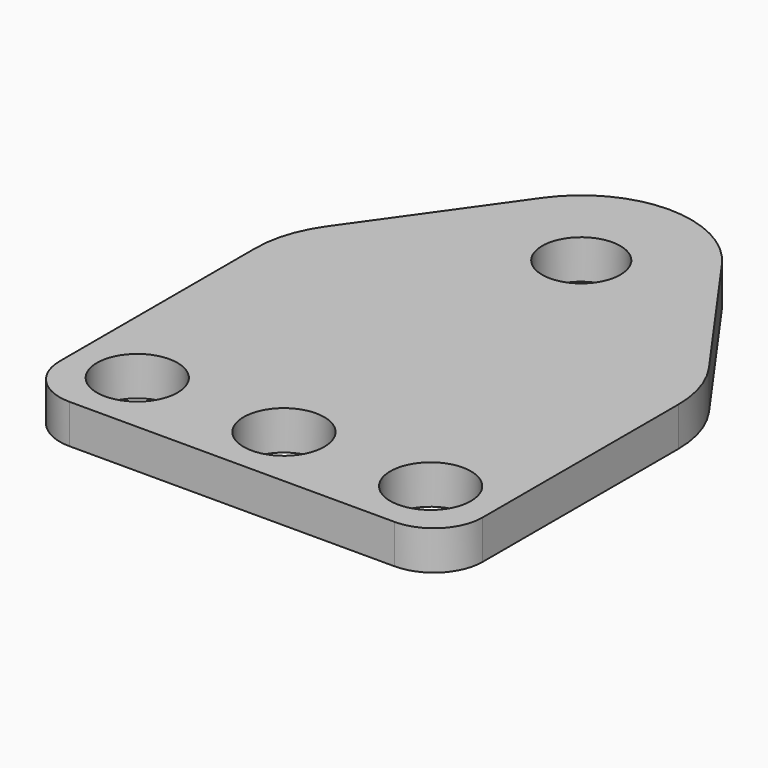
from build123d import *

# Parameters (mm, degrees)
SKETCH_R   = 8
SKETCH_R_2 = 8.25
PAD_DEPTH  = 8


with BuildPart() as part:
    # Sketch → Pad (new body)
    with BuildSketch(Plane.XY):
        with BuildLine():
            Line((-43.25, -79.25), (-43.25, -29.25))
            ThreePointArc((-39.101298, -16.231558), (-42.18775, -22.418244), (-43.25, -29.25))
            Line((-39.101298, -16.231558), (-18.351298, 13.018442))
            ThreePointArc((18.351298, 13.018442), (0, 22.5), (-18.351298, 13.018442))
            Line((39.101298, -16.231558), (18.351298, 13.018442))
            ThreePointArc((43.25, -29.25), (42.18775, -22.418244), (39.101298, -16.231558))
            Line((43.25, -79.25), (43.25, -29.25))
            ThreePointArc((33.25, -89.25), (40.321068, -86.321068), (43.25, -79.25))
            Line((-33.25, -89.25), (33.25, -89.25))
            ThreePointArc((-43.25, -79.25), (-40.321068, -86.321068), (-33.25, -89.25))
        make_face()
        Circle(SKETCH_R, mode=Mode.SUBTRACT)
        with Locations((0, -76)):
            Circle(SKETCH_R_2, mode=Mode.SUBTRACT)
        with Locations((30, -76)):
            Circle(SKETCH_R_2, mode=Mode.SUBTRACT)
        with Locations((-30, -76)):
            Circle(SKETCH_R_2, mode=Mode.SUBTRACT)
    extrude(amount=PAD_DEPTH)


solid = part.part
